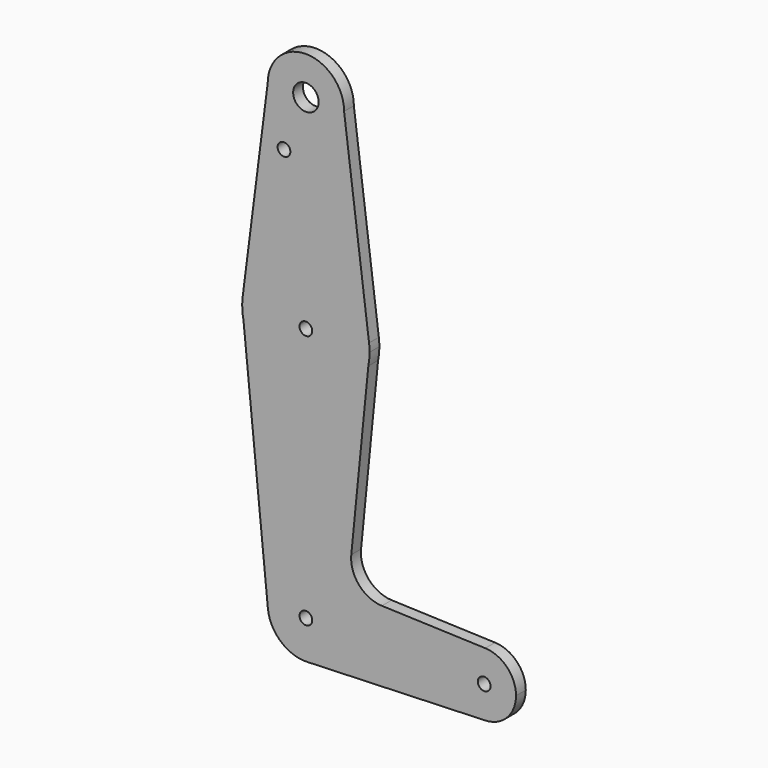
from build123d import *

# Parameters (mm, degrees)
F0_R     = 3.175
F0_R_2   = 1.5875
F1_DEPTH = 3.048


with BuildPart() as f1:
    # F0 (on Front) → F1 (new body)
    with BuildSketch(Plane.XZ):
        with BuildLine():
            ThreePointArc((-9.525, 114.3), (0, 104.775), (9.525, 114.3))
            ThreePointArc((9.525, 114.3), (0, 123.825), (-9.525, 114.3))
        make_face()
        with Locations((0, 114.3)):
            Circle(F0_R, mode=Mode.SUBTRACT)
        with BuildLine():
            Line((15.747457, 65.508289), (9.525, 114.3))
            ThreePointArc((9.525, 114.3), (0, 104.775), (-9.525, 114.3))
            Line((-9.525, 114.3), (-15.747457, 65.508289))
            ThreePointArc((-15.747457, 65.508289), (0, 79.375), (15.747457, 65.508289))
        make_face()
        with Locations((-5.454906, 101.092)):
            Circle(F0_R_2, mode=Mode.SUBTRACT)
        with BuildLine():
            ThreePointArc((15.875, 63.5), (15.843082, 64.506168), (15.747457, 65.508289))
            ThreePointArc((15.747457, 65.508289), (0, 79.375), (-15.747457, 65.508289))
            ThreePointArc((-15.747457, 65.508289), (-15.843082, 64.506168), (-15.875, 63.5))
            Line((-15.875, 63.5), (-15.565216, 60.379155))
            ThreePointArc((-15.565216, 60.379155), (0, 47.625), (15.565216, 60.379155))
            Line((15.565216, 60.379155), (15.875, 63.5))
        make_face()
        with Locations((0, 63.5)):
            Circle(F0_R_2, mode=Mode.SUBTRACT)
        with BuildLine():
            ThreePointArc((15.565216, 60.379155), (15.797364, 61.931909), (15.875, 63.5))
            Line((15.875, 63.5), (15.565216, 60.379155))
        make_face()
        with BuildLine():
            Line((-15.565216, 60.379155), (-15.875, 63.5))
            ThreePointArc((-15.875, 63.5), (-15.797364, 61.931909), (-15.565216, 60.379155))
        make_face()
        with BuildLine():
            Line((11.317296, 17.584481), (15.565216, 60.379155))
            ThreePointArc((15.565216, 60.379155), (0, 47.625), (-15.565216, 60.379155))
            Line((-15.565216, 60.379155), (-9.478419, -0.940855))
            ThreePointArc((-9.478419, -0.940855), (-0.471004, 9.513348), (9.525, 0))
            ThreePointArc((9.525, 0), (6.854408, -6.613827), (0.340179, -9.518923))
            Line((0.340179, -9.518923), (44.733482, -7.932436))
            ThreePointArc((44.733482, -7.932436), (36.5125, 0), (44.733482, 7.932436))
            Line((44.733482, 7.932436), (18.94468, 8.854053))
            ThreePointArc((18.94468, 8.854053), (13.241492, 11.568499), (11.317296, 17.584481))
        make_face()
        with BuildLine():
            ThreePointArc((9.525, 0), (-0.471004, 9.513348), (-9.478419, -0.940855))
            ThreePointArc((-9.478419, -0.940855), (-6.266791, -7.173071), (0.340179, -9.518923))
            ThreePointArc((0.340179, -9.518923), (6.854408, -6.613827), (9.525, 0))
        make_face()
        Circle(F0_R_2, mode=Mode.SUBTRACT)
        with BuildLine():
            ThreePointArc((52.3875, 0), (50.162007, 5.511523), (44.733482, 7.932436))
            ThreePointArc((44.733482, 7.932436), (36.5125, 0), (44.733482, -7.932436))
            ThreePointArc((44.733482, -7.932436), (50.162007, -5.511523), (52.3875, 0))
        make_face()
        with Locations((44.45, 0)):
            Circle(F0_R_2, mode=Mode.SUBTRACT)
    extrude(amount=F1_DEPTH)


solid = f1.part
